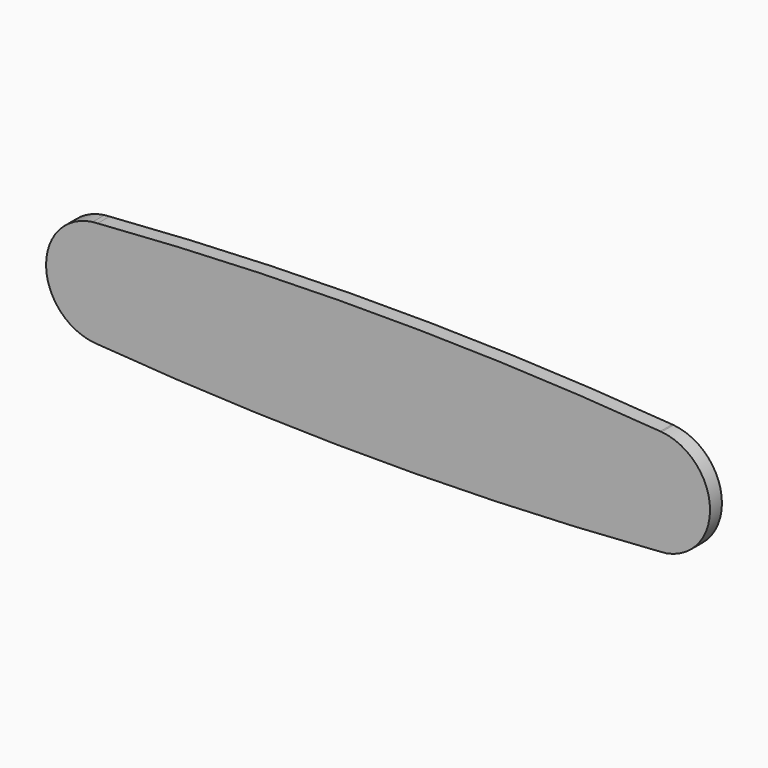
from build123d import *

# Parameters (mm, degrees)
F1_DEPTH = 20


with BuildPart() as f1:
    # F0 (on Front) → F1 (new body)
    with BuildSketch(Plane.XZ):
        with BuildLine():
            ThreePointArc((-65.757547181, 71.5748188867), (-69.0989387142, 71.3126227553), (-72.4401482551, 71.0481175695))
            ThreePointArc((-72.4401482551, 71.0481175695), (-135.0801674653, -1.1501941521), (-70.1535153362, -71.2993072286))
            ThreePointArc((-70.1535153362, -71.2993072286), (-69.0584021422, -71.3850359083), (-67.9632695598, -71.4705165565))
            ThreePointArc((-67.9632695598, -71.4705165565), (-14.4529218434, -52.1982896408), (8.1327949171, 0))
            ThreePointArc((8.1327949171, 0), (-13.6539605845, 51.436216215), (-65.757547181, 71.5748188867))
        make_face()
        with BuildLine():
            ThreePointArc((691.2623000686, 71.4540153246), (312.7547370204, 86.3070548625), (-65.757547181, 71.5748188867))
            ThreePointArc((-65.757547181, 71.5748188867), (-13.6539605845, 51.436216215), (8.1327949171, 0))
            Line((8.1327949171, 0), (614.9105949171, 0))
            ThreePointArc((614.9105949171, 0), (637.5897539499, 52.2858948129), (691.2623000686, 71.4540153246))
        make_face()
        with BuildLine():
            ThreePointArc((8.1327949171, 0), (-14.4529218434, -52.1982896408), (-67.9632695598, -71.4705165565))
            ThreePointArc((-67.9632695598, -71.4705165565), (308.2078673432, -86.1351257419), (684.3832239949, -71.5791630667))
            ThreePointArc((684.3832239949, -71.5791630667), (635.134498563, -49.8749004418), (614.9105949171, 0))
            Line((614.9105949171, 0), (8.1327949171, 0))
        make_face()
        with BuildLine():
            ThreePointArc((693.0063193154, 71.3168934378), (692.1343158745, 71.385533015), (691.2623000686, 71.4540153246))
            ThreePointArc((691.2623000686, 71.4540153246), (637.5897539499, 52.2858948129), (614.9105949171, 0))
            ThreePointArc((614.9105949171, 0), (635.134498563, -49.8749004418), (684.3832239949, -71.5791630667))
            ThreePointArc((684.3832239949, -71.5791630667), (692.1472178132, -70.9700130767), (699.910223484, -70.3483968973))
            ThreePointArc((699.910223484, -70.3483968973), (741.689243808, -45.6584186386), (758.1327949171, 0))
            ThreePointArc((758.1327949171, 0), (739.4013731, 48.2896394528), (693.0063193154, 71.3168934378))
        make_face()
    extrude(amount=F1_DEPTH)


solid = f1.part
